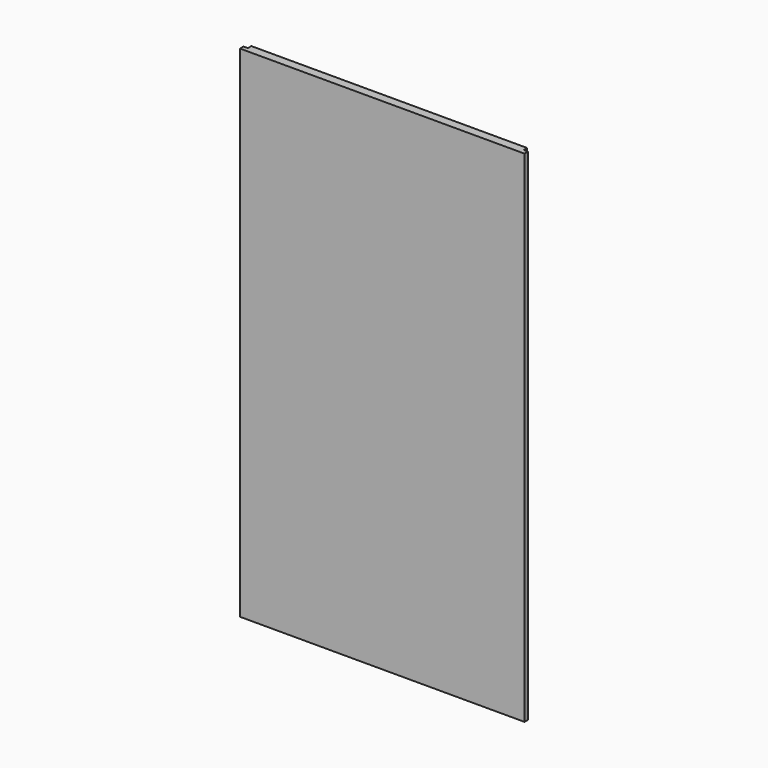
from build123d import *

# Parameters (mm, degrees)
F0_W     = 388
F0_H     = 682
F1_DEPTH = 12
F2_W     = 6
F2_H     = 682
F3_DEPTH = 6
F4_W     = 382
F4_H     = 6
F5_DEPTH = 6
F6_W     = 6
F6_H     = 676
F7_DEPTH = 6
F8_W     = 376
F8_H     = 6
F9_DEPTH = 6


with BuildPart() as f1:
    # F0 (on Front) → F1 (new body)
    with BuildSketch(Plane.XZ):
        Rectangle(F0_W, F0_H)
    extrude(amount=F1_DEPTH)

    # F2 (on face) → F3 (cut)
    with BuildSketch(Plane(origin=(0, 0, 0), x_dir=(-1, 0, 0), z_dir=(0, 1, 0))):
        with Locations((191, 0)):
            Rectangle(F2_W, F2_H)
    extrude(amount=-F3_DEPTH, mode=Mode.SUBTRACT)

    # F4 (on face) → F5 (cut)
    with BuildSketch(Plane(origin=(0, 0, 0), x_dir=(-1, 0, 0), z_dir=(0, 1, 0))):
        with Locations((-3, -338)):
            Rectangle(F4_W, F4_H)
    extrude(amount=-F5_DEPTH, mode=Mode.SUBTRACT)

    # F6 (on face) → F7 (cut)
    with BuildSketch(Plane(origin=(0, 0, 0), x_dir=(-1, 0, 0), z_dir=(0, 1, 0))):
        with Locations((-191, 3)):
            Rectangle(F6_W, F6_H)
    extrude(amount=-F7_DEPTH, mode=Mode.SUBTRACT)

    # F8 (on face) → F9 (cut)
    with BuildSketch(Plane(origin=(0, 0, 0), x_dir=(-1, 0, 0), z_dir=(0, 1, 0))):
        with Locations((0, 83)):
            Rectangle(F8_W, F8_H)
    extrude(amount=-F9_DEPTH, mode=Mode.SUBTRACT)


solid = f1.part
